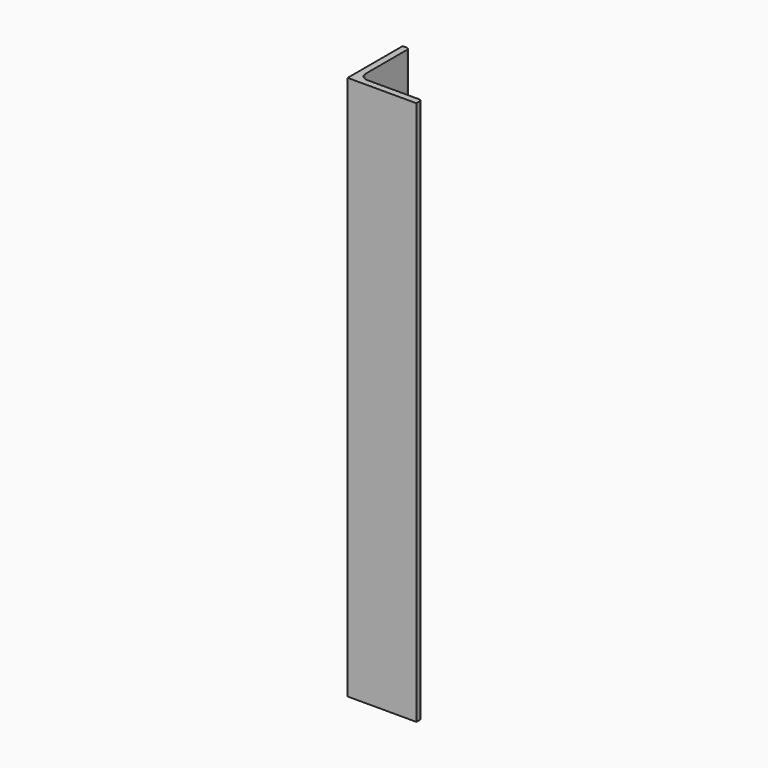
from build123d import *

# Parameters (mm, degrees)
F1_DEPTH = 990
F2_R     = 4.6
F3_R     = 14
F5_D     = 25
F7_D     = 25
F9_D     = 25
F11_D    = 25


with BuildPart() as f1:
    # F0 (on Top) → F1 (new body)
    with BuildSketch(Plane.XY):
        Polygon((0, 125), (0, 0), (125, 0), (125, 12), (12, 12), (12, 125), align=None)
    extrude(amount=F1_DEPTH)

    # F2
    f2_edges = [f1.edges().sort_by_distance(p)[0] for p in [
        (12, 125, 495),
        (125, 12, 495),
    ]]
    fillet(f2_edges, radius=F2_R)

    # F3
    f3_edges = [f1.edges().sort_by_distance(p)[0] for p in [
        (12, 12, 495),
    ]]
    fillet(f3_edges, radius=F3_R)

    # F5 (through all)
    with Locations(Plane(origin=(0, 0, 0), x_dir=(0, -1, 0), z_dir=(-1, 0, 0))):
        with Locations((-57.285432, 908.028543), (-59.564956, 459.623039), (-59.564956, 547.018707), (-59.564956, 624.141753), (-59.564956, 683.498025), (-59.564956, 748.724401), (-57.285432, 827.314973)):
            Hole(F5_D / 2)

    # F7 (through all)
    with Locations(Plane(origin=(0, 0, 0), x_dir=(0, -1, 0), z_dir=(-1, 0, 0))):
        with Locations((-72.530732, 202.228412)):
            Hole(F7_D / 2)

    # F9 (through all)
    with Locations(Plane.YZ.offset(12)):
        with Locations((65.758131, 26.347905)):
            Hole(F9_D / 2)

    # F11 (through all)
    with Locations(Plane.YZ.offset(12)):
        with Locations((65.283261, 98.539941)):
            Hole(F11_D / 2)


solid = f1.part
